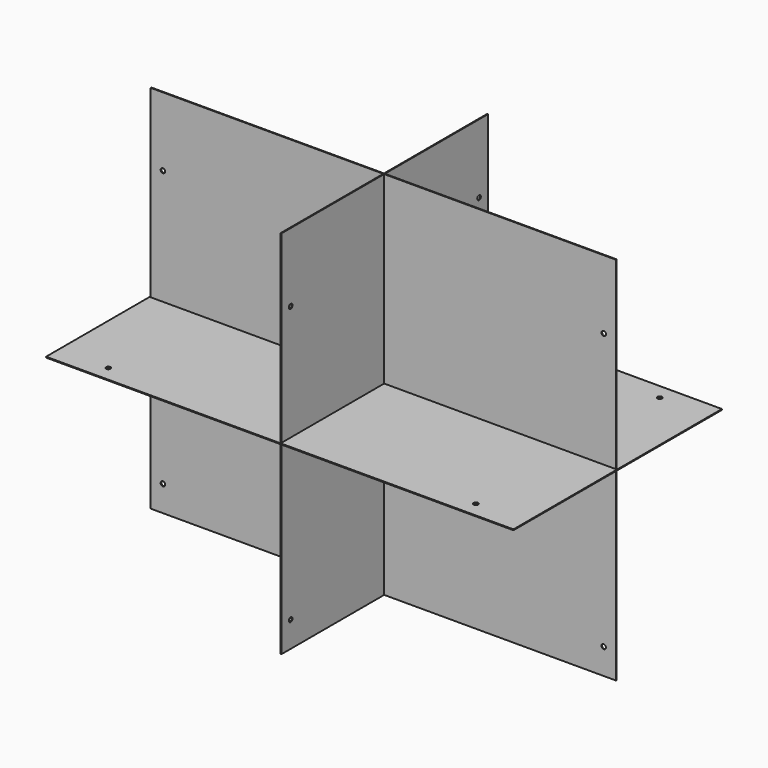
from build123d import *

# Parameters (mm, degrees)
F0_W      = 571.5
F0_H      = 819.15
F1_DEPTH  = 1.89738
F2_R      = 5
F3_DEPTH  = 1.89838
F4_W      = 1028.7
F4_H      = 819.15
F5_DEPTH  = 1.89738
F6_R      = 5
F7_DEPTH  = 287.64838
F8_W      = 1033.4625
F8_H      = 576.2625
F9_DEPTH  = 1.89738
F10_R     = 5
F11_DEPTH = 411.47338


with BuildPart() as f1:
    # F0 (on Right) → F1 (new body)
    with BuildSketch(Plane.YZ):
        Rectangle(F0_W, F0_H)
    extrude(amount=F1_DEPTH)

    # F2 (on face) → F3 (cut, through all)
    with BuildSketch(Plane.YZ.offset(1.89738)):
        with Locations((-260.35, 257.175)):
            Circle(F2_R)
        with Locations((-260.35, -352.425)):
            Circle(F2_R)
        with Locations((260.35, 257.175)):
            Circle(F2_R)
        with Locations((260.35, -352.425)):
            Circle(F2_R)
    extrude(amount=-F3_DEPTH, mode=Mode.SUBTRACT)


with BuildPart() as f5:
    # F4 (on Front) → F5 (new body)
    with BuildSketch(Plane.XZ):
        Rectangle(F4_W, F4_H)
    extrude(amount=F5_DEPTH)

    # F6 (on face) → F7 (cut, through all)
    with BuildSketch(Plane.XZ.offset(1.89738)):
        with Locations((-487.3625, 257.175)):
            Circle(F6_R)
        with Locations((487.3625, 257.175)):
            Circle(F6_R)
        with Locations((-487.3625, -352.425)):
            Circle(F6_R)
        with Locations((487.3625, -352.425)):
            Circle(F6_R)
    extrude(amount=-F7_DEPTH, mode=Mode.SUBTRACT)


with BuildPart() as f9:
    # F8 (on Top) → F9 (new body)
    with BuildSketch(Plane.XY):
        Rectangle(F8_W, F8_H)
    extrude(amount=F9_DEPTH)

    # F10 (on face) → F11 (cut, through all)
    with BuildSketch(Plane.XY.offset(1.89738)):
        with Locations((406.4, -254)):
            Circle(F10_R)
        with Locations((-406.4, -254)):
            Circle(F10_R)
        with Locations((406.4, 254)):
            Circle(F10_R)
        with Locations((-406.4, 254)):
            Circle(F10_R)
    extrude(amount=-F11_DEPTH, mode=Mode.SUBTRACT)


solid = Compound([f1.part, f5.part, f9.part])
